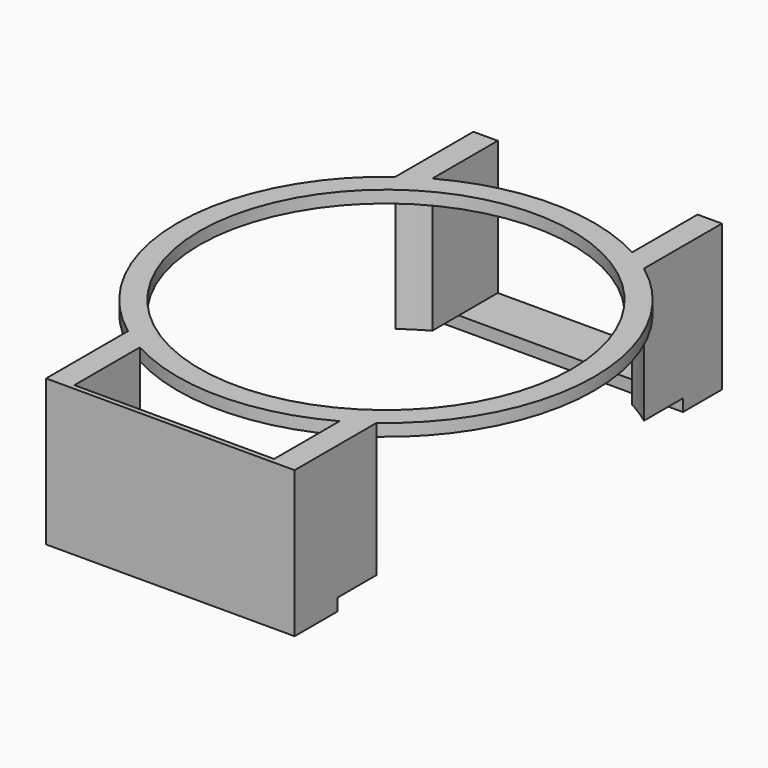
from build123d import *

# Parameters (mm, degrees)
F0_R     = 42.75
F0_R_2   = 38.25
F1_DEPTH = 2.5
F3_DEPTH = 27.5
F4_W     = 51
F4_H     = 10
F5_DEPTH = 2.5
F6_W     = 51
F6_H     = 30
F7_DEPTH = 1


with BuildPart() as f1:
    # F0 (on Top) → F1 (new body)
    with BuildSketch(Plane.XY):
        Circle(F0_R)
        Circle(F0_R_2, mode=Mode.SUBTRACT)
    extrude(amount=F1_DEPTH)

    # F2 (on face) → F3 (join)
    with BuildSketch(Plane.XY.offset(2.5)):
        with BuildLine():
            Line((25.5, -54.311988), (25.5, -34.311988))
            ThreePointArc((25.5, -34.311988), (23.055661, -35.999986), (20.5, -37.514164))
            Line((20.5, -37.514164), (20.5, -54.311988))
            Line((20.5, -54.311988), (25.5, -54.311988))
        make_face()
        with BuildLine():
            ThreePointArc((-20.5, -37.514164), (-23.055661, -35.999986), (-25.5, -34.311988))
            Line((-25.5, -34.311988), (-25.5, -54.311988))
            Line((-25.5, -54.311988), (-20.5, -54.311988))
            Line((-20.5, -54.311988), (-20.5, -37.514164))
        make_face()
        with BuildLine():
            ThreePointArc((20.5, 37.514164), (23.055661, 35.999986), (25.5, 34.311988))
            Line((25.5, 34.311988), (25.5, 54.311988))
            Line((25.5, 54.311988), (20.5, 54.311988))
            Line((20.5, 54.311988), (20.5, 37.514164))
        make_face()
        with BuildLine():
            Line((-20.5, 54.311988), (-25.5, 54.311988))
            Line((-25.5, 54.311988), (-25.5, 34.311988))
            ThreePointArc((-25.5, 34.311988), (-23.055661, 35.999986), (-20.5, 37.514164))
            Line((-20.5, 37.514164), (-20.5, 54.311988))
        make_face()
    extrude(amount=-F3_DEPTH)

    # F4 (on face) → F5 (join)
    with BuildSketch(Plane(origin=(0, 0, -25), x_dir=(1, 0, 0), z_dir=(0, 0, -1))):
        with Locations((0, -49.311988)):
            Rectangle(F4_W, F4_H)
        with Locations((0, 49.311988)):
            Rectangle(F4_W, F4_H)
    extrude(amount=F5_DEPTH)

    # F6 (on face) → F7 (join)
    with BuildSketch(Plane.XZ.offset(54.311988)):
        with Locations((0, -12.5)):
            Rectangle(F6_W, F6_H)
    extrude(amount=F7_DEPTH)


solid = f1.part
